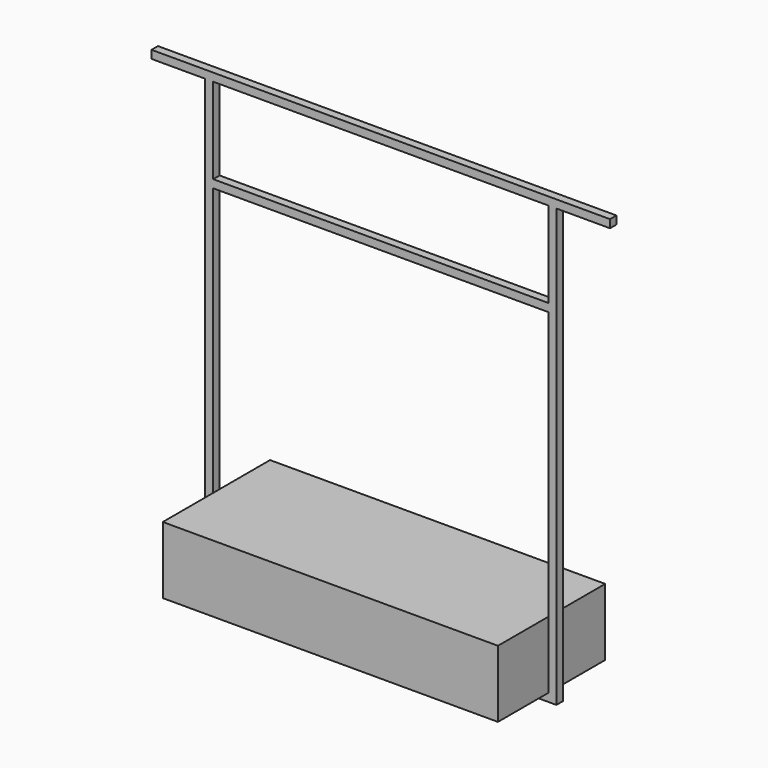
from build123d import *

# Parameters (mm, degrees)
F0_W      = 1250
F0_H      = 500
F1_DEPTH  = 250
F2_W      = 1310
F2_H      = 1660
F2_W_2    = 1250
F2_H_2    = 1600
F3_DEPTH  = 15
F4_W      = 1050
F4_H      = 300
F4_W_2    = 990
F4_H_2    = 240
F5_DEPTH  = 30
F6_W      = 30
F6_H      = 30
F7_DEPTH  = 200
F8_W      = 30
F8_H      = 30
F9_DEPTH  = 200
F10_W     = 30
F10_H     = 30
F11_DEPTH = 1250


with BuildPart() as f1:
    # F0 (on Top) → F1 (new body)
    with BuildSketch(Plane.XY):
        Rectangle(F0_W, F0_H)
    extrude(amount=F1_DEPTH)


with BuildPart() as f3:
    # F2 (on Front) → F3 (new body, symmetric)
    with BuildSketch(Plane.XZ):
        with Locations((0, 800)):
            Rectangle(F2_W, F2_H)
        with Locations((0, 800)):
            Rectangle(F2_W_2, F2_H_2, mode=Mode.SUBTRACT)
    extrude(amount=F3_DEPTH, both=True)

    # F4 (on face) → F5 (join)
    with BuildSketch(Plane(origin=(0, 0, 0), x_dir=(1, 0, 0), z_dir=(0, 0, -1))):
        Rectangle(F4_W, F4_H)
        Rectangle(F4_W_2, F4_H_2, mode=Mode.SUBTRACT)
    extrude(amount=F5_DEPTH)

    # F6 (on face) → F7 (join)
    with BuildSketch(Plane.YZ.offset(655)):
        with Locations((0, 1615)):
            Rectangle(F6_W, F6_H)
    extrude(amount=F7_DEPTH)

    # F8 (on face) → F9 (join)
    with BuildSketch(Plane(origin=(-655, 0, 0), x_dir=(0, -1, 0), z_dir=(-1, 0, 0))):
        with Locations((0, 1615)):
            Rectangle(F8_W, F8_H)
    extrude(amount=F9_DEPTH)

    # F10 (on face) → F11 (join, through all)
    with BuildSketch(Plane.YZ.offset(-625)):
        with Locations((0, 1265)):
            Rectangle(F10_W, F10_H)
    extrude(amount=F11_DEPTH)


solid = Compound([f1.part, f3.part])
